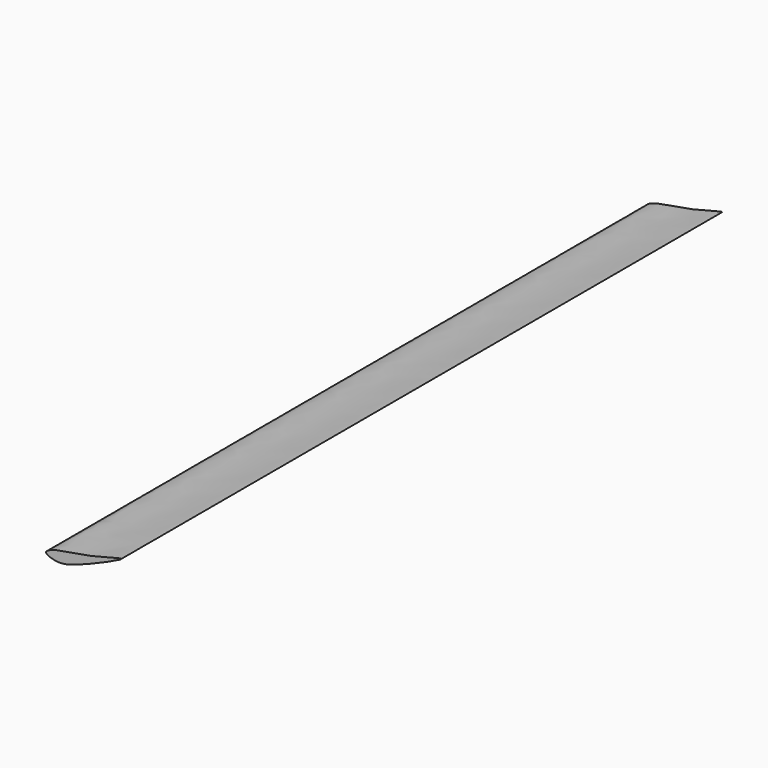
from build123d import *

# Parameters (mm, degrees)
F1_DEPTH = 2000.00108


with BuildPart() as f1:
    # F0 (on Front) → F1 (new body)
    with BuildSketch(Plane.XZ):
        with BuildLine():
            add(Edge.make_bspline(
                [(0, 0), (0.9020256441, 3.2415522346), (-90.668470363, -26.0991203693), (-166.8710950856, -30.2627738891), (-212.1967489727, -50.2302944568), (-167.0700825684, -66.3301413793), (-117.226375074, -54.9473337561), (-1.0893306732, -3.9146584145), (0, 0)],
                knots=[0, 0, 0, 0, 0.1857143269, 0.3890930404, 0.498634163, 0.6062283934, 0.7757222158, 1, 1, 1, 1], degree=3))
        make_face()
    extrude(amount=F1_DEPTH)


solid = f1.part
